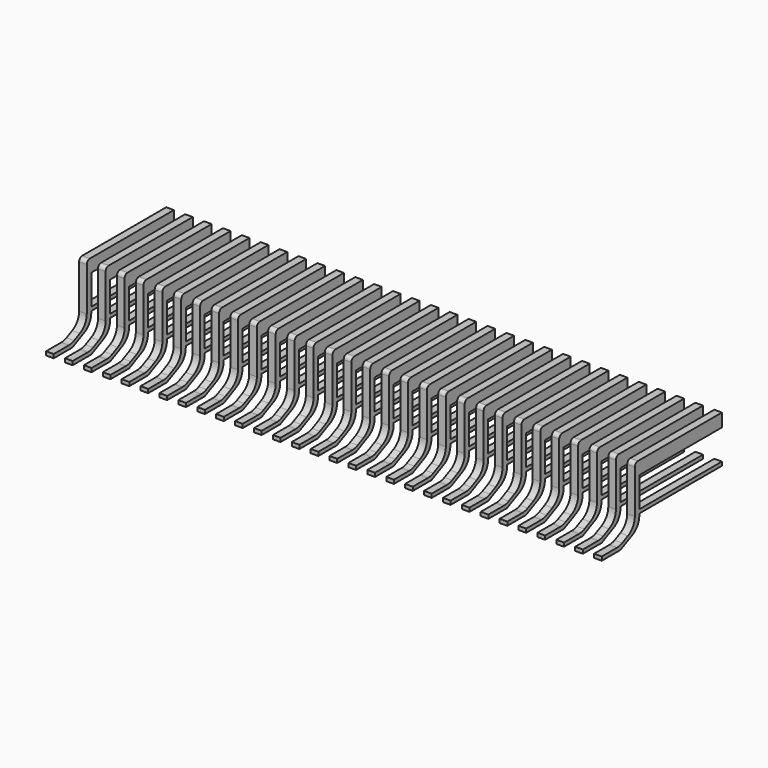
from build123d import *

# Parameters (mm, degrees)
PAD009_DEPTH = 16
PAD008_DEPTH = 2
FILLET_R     = 0.1
FILLET001_R  = 0.4


with BuildPart() as body009:
    # Sketch009 → Pad009 (new body)
    with BuildSketch(Plane.YZ.offset(8)):
        Polygon((-2, 1.5), (0.8, 1.5), (0.8, 1.85), (-2.15, 1.85), (-2.15, 0.339113), (-2.65, 0.1), (-3.25, 0.1), (-3.25, 0), (-4.25, 0), (-4.25, 2), (0.95, 2), (0.95, 0), (-2.627319, 0), (-2, 0.3), (-2, 0.6), (0.8, 0.6), (0.8, 0.7), (-2, 0.7), align=None)
    extrude(amount=-PAD009_DEPTH)


with BuildPart() as fillet001:
    # Sketch008 → Pad008 (new body)
    with BuildSketch(Plane.XY):
        Polygon((-7.4, 0.75), (-7.196667, 0.75), (-7.196667, -3.25), (-6.896667, -3.25), (-6.896667, 0.75), (-6.693333, 0.75), (-6.693333, -3.25), (-6.393333, -3.25), (-6.393333, 0.75), (-6.19, 0.75), (-6.19, -3.25), (-5.89, -3.25), (-5.89, 0.75), (-5.686667, 0.75), (-5.686667, -3.25), (-5.386667, -3.25), (-5.386667, 0.75), (-5.183333, 0.75), (-5.183333, -3.25), (-4.883333, -3.25), (-4.883333, 0.75), (-4.68, 0.75), (-4.68, -3.25), (-4.38, -3.25), (-4.38, 0.75), (-4.176667, 0.75), (-4.176667, -3.25), (-3.876667, -3.25), (-3.876667, 0.75), (-3.673333, 0.75), (-3.673333, -3.25), (-3.373333, -3.25), (-3.373333, 0.75), (-3.17, 0.75), (-3.17, -3.25), (-2.87, -3.25), (-2.87, 0.75), (-2.666667, 0.75), (-2.666667, -3.25), (-2.366667, -3.25), (-2.366667, 0.75), (-2.163333, 0.75), (-2.163333, -3.25), (-1.863333, -3.25), (-1.863333, 0.75), (-1.66, 0.75), (-1.66, -3.25), (-1.36, -3.25), (-1.36, 0.75), (-1.156667, 0.75), (-1.156667, -3.25), (-0.856667, -3.25), (-0.856667, 0.75), (-0.653333, 0.75), (-0.653333, -3.25), (-0.353333, -3.25), (-0.353333, 0.75), (-0.15, 0.75), (-0.15, -3.25), (0.15, -3.25), (0.15, 0.75), (0.353333, 0.75), (0.353333, -3.25), (0.653333, -3.25), (0.653333, 0.75), (0.856667, 0.75), (0.856667, -3.25), (1.156667, -3.25), (1.156667, 0.75), (1.36, 0.75), (1.36, -3.25), (1.66, -3.25), (1.66, 0.75), (1.863333, 0.75), (1.863333, -3.25), (2.163333, -3.25), (2.163333, 0.75), (2.366667, 0.75), (2.366667, -3.25), (2.666667, -3.25), (2.666667, 0.75), (2.87, 0.75), (2.87, -3.25), (3.17, -3.25), (3.17, 0.75), (3.373333, 0.75), (3.373333, -3.25), (3.673333, -3.25), (3.673333, 0.75), (3.876667, 0.75), (3.876667, -3.25), (4.176667, -3.25), (4.176667, 0.75), (4.38, 0.75), (4.38, -3.25), (4.68, -3.25), (4.68, 0.75), (4.883333, 0.75), (4.883333, -3.25), (5.183333, -3.25), (5.183333, 0.75), (5.386667, 0.75), (5.386667, -3.25), (5.686667, -3.25), (5.686667, 0.75), (5.89, 0.75), (5.89, -3.25), (6.19, -3.25), (6.19, 0.75), (6.393333, 0.75), (6.393333, -3.25), (6.693333, -3.25), (6.693333, 0.75), (6.896667, 0.75), (6.896667, -3.25), (7.196667, -3.25), (7.196667, 0.75), (7.4, 0.75), (7.4, -4.25), (-7.4, -4.25), align=None)
    extrude(amount=PAD008_DEPTH)

    # Cut001: cut Body009
    add(body009.part, mode=Mode.SUBTRACT)

    # Fillet
    fillet_edges = [fillet001.edges().sort_by_distance(p)[0] for p in [
        (-7.298333, -2.15, 1.85),
        (7.298333, -2.15, 1.85),
        (6.795, -2.15, 1.85),
        (6.291667, -2.15, 1.85),
        (5.788333, -2.15, 1.85),
        (5.285, -2.15, 1.85),
        (4.781667, -2.15, 1.85),
        (4.278333, -2.15, 1.85),
        (3.775, -2.15, 1.85),
        (3.271667, -2.15, 1.85),
        (2.768333, -2.15, 1.85),
        (2.265, -2.15, 1.85),
        (1.761667, -2.15, 1.85),
        (1.258333, -2.15, 1.85),
        (0.755, -2.15, 1.85),
        (0.251667, -2.15, 1.85),
        (-0.251667, -2.15, 1.85),
        (-0.755, -2.15, 1.85),
        (-1.258333, -2.15, 1.85),
        (-1.761667, -2.15, 1.85),
        (-2.265, -2.15, 1.85),
        (-2.768333, -2.15, 1.85),
        (-3.271667, -2.15, 1.85),
        (-3.775, -2.15, 1.85),
        (-4.278333, -2.15, 1.85),
        (-4.781667, -2.15, 1.85),
        (-5.285, -2.15, 1.85),
        (-5.788333, -2.15, 1.85),
        (-6.291667, -2.15, 1.85),
        (-6.795, -2.15, 1.85),
    ]]
    fillet(fillet_edges, radius=FILLET_R)

    # Fillet001
    fillet001_edges = [fillet001.edges().sort_by_distance(p)[0] for p in [
        (-7.298333, -2.15, 0.339113),
        (-7.298333, -2.65, 0.1),
        (-7.298333, -2, 0.3),
        (7.298333, -2.15, 0.339113),
        (7.298333, -2.65, 0.1),
        (7.298333, -2, 0.3),
        (6.795, -2.15, 0.339113),
        (6.795, -2.65, 0.1),
        (6.795, -2, 0.3),
        (6.291667, -2.15, 0.339113),
        (6.291667, -2.65, 0.1),
        (6.291667, -2, 0.3),
        (5.788333, -2.15, 0.339113),
        (5.788333, -2.65, 0.1),
        (5.788333, -2, 0.3),
        (5.285, -2.15, 0.339113),
        (5.285, -2.65, 0.1),
        (5.285, -2, 0.3),
        (4.781667, -2.15, 0.339113),
        (4.781667, -2.65, 0.1),
        (4.781667, -2, 0.3),
        (4.278333, -2.15, 0.339113),
        (4.278333, -2.65, 0.1),
        (4.278333, -2, 0.3),
        (3.775, -2.15, 0.339113),
        (3.775, -2.65, 0.1),
        (3.775, -2, 0.3),
        (3.271667, -2.15, 0.339113),
        (3.271667, -2.65, 0.1),
        (3.271667, -2, 0.3),
        (2.768333, -2.15, 0.339113),
        (2.768333, -2.65, 0.1),
        (2.768333, -2, 0.3),
        (2.265, -2.15, 0.339113),
        (2.265, -2.65, 0.1),
        (2.265, -2, 0.3),
        (1.761667, -2.15, 0.339113),
        (1.761667, -2.65, 0.1),
        (1.761667, -2, 0.3),
        (1.258333, -2.15, 0.339113),
        (1.258333, -2.65, 0.1),
        (1.258333, -2, 0.3),
        (0.755, -2.15, 0.339113),
        (0.755, -2.65, 0.1),
        (0.755, -2, 0.3),
        (0.251667, -2.15, 0.339113),
        (0.251667, -2.65, 0.1),
        (0.251667, -2, 0.3),
        (-0.251667, -2.15, 0.339113),
        (-0.251667, -2.65, 0.1),
        (-0.251667, -2, 0.3),
        (-0.755, -2.15, 0.339113),
        (-0.755, -2.65, 0.1),
        (-0.755, -2, 0.3),
        (-1.258333, -2.15, 0.339113),
        (-1.258333, -2.65, 0.1),
        (-1.258333, -2, 0.3),
        (-1.761667, -2.15, 0.339113),
        (-1.761667, -2.65, 0.1),
        (-1.761667, -2, 0.3),
        (-2.265, -2.15, 0.339113),
        (-2.265, -2.65, 0.1),
        (-2.265, -2, 0.3),
        (-2.768333, -2.15, 0.339113),
        (-2.768333, -2.65, 0.1),
        (-2.768333, -2, 0.3),
        (-3.271667, -2.15, 0.339113),
        (-3.271667, -2.65, 0.1),
        (-3.271667, -2, 0.3),
        (-3.775, -2.15, 0.339113),
        (-3.775, -2.65, 0.1),
        (-3.775, -2, 0.3),
        (-4.278333, -2.15, 0.339113),
        (-4.278333, -2.65, 0.1),
        (-4.278333, -2, 0.3),
        (-4.781667, -2.15, 0.339113),
        (-4.781667, -2.65, 0.1),
        (-4.781667, -2, 0.3),
        (-5.285, -2.15, 0.339113),
        (-5.285, -2.65, 0.1),
        (-5.285, -2, 0.3),
        (-5.788333, -2.15, 0.339113),
        (-5.788333, -2.65, 0.1),
        (-5.788333, -2, 0.3),
        (-6.291667, -2.15, 0.339113),
        (-6.291667, -2.65, 0.1),
        (-6.291667, -2, 0.3),
        (-6.795, -2.15, 0.339113),
        (-6.795, -2.65, 0.1),
        (-6.795, -2, 0.3),
    ]]
    fillet(fillet001_edges, radius=FILLET001_R)


solid = fillet001.part
